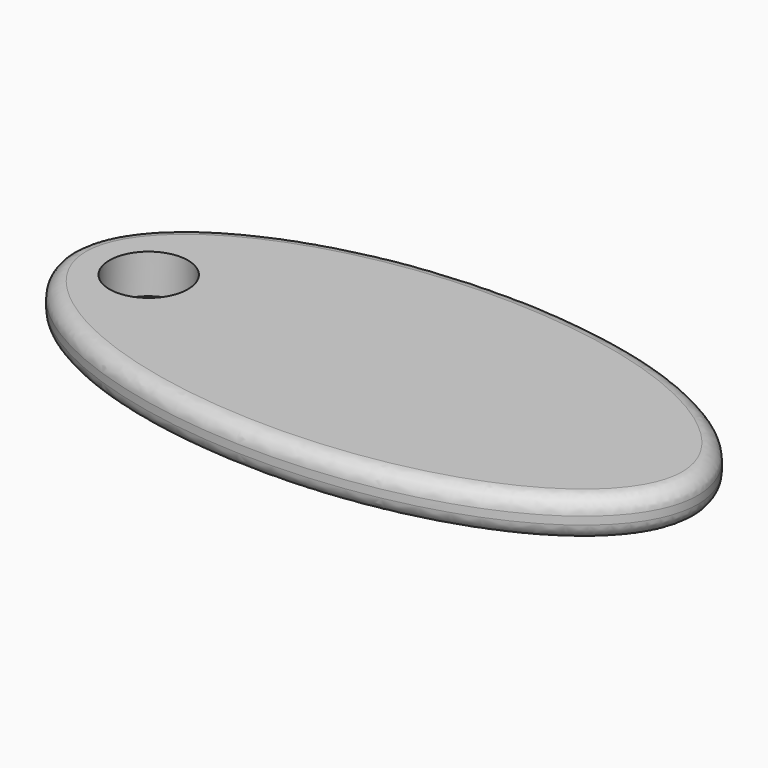
from build123d import *

# Parameters (mm, degrees)
F0_R     = 5
F1_DEPTH = 5
F2_R     = 2


with BuildPart() as f1:
    # F0 (on Top) → F1 (new body)
    with BuildSketch(Plane.XY):
        with BuildLine():
            add(Edge.make_bspline(
                [(-40, 0), (-40, -34.641016), (20, -17.320508), (80, 0), (20, 17.320508), (-40, 34.641016), (-40, 0)],
                knots=[0, 0, 0, 2.094395, 2.094395, 4.18879, 4.18879, 6.283185, 6.283185, 6.283185], degree=2, weights=[1, 0.5, 1, 0.5, 1, 0.5, 1]))
        make_face()
        with Locations((-30, 0)):
            Circle(F0_R, mode=Mode.SUBTRACT)
    extrude(amount=F1_DEPTH)

    # F2
    f2_edges = [f1.edges().sort_by_distance(p)[0] for p in [
        (40, -5e-06, 5),
        (40, -5e-06, 0),
    ]]
    fillet(f2_edges, radius=F2_R)


solid = f1.part
